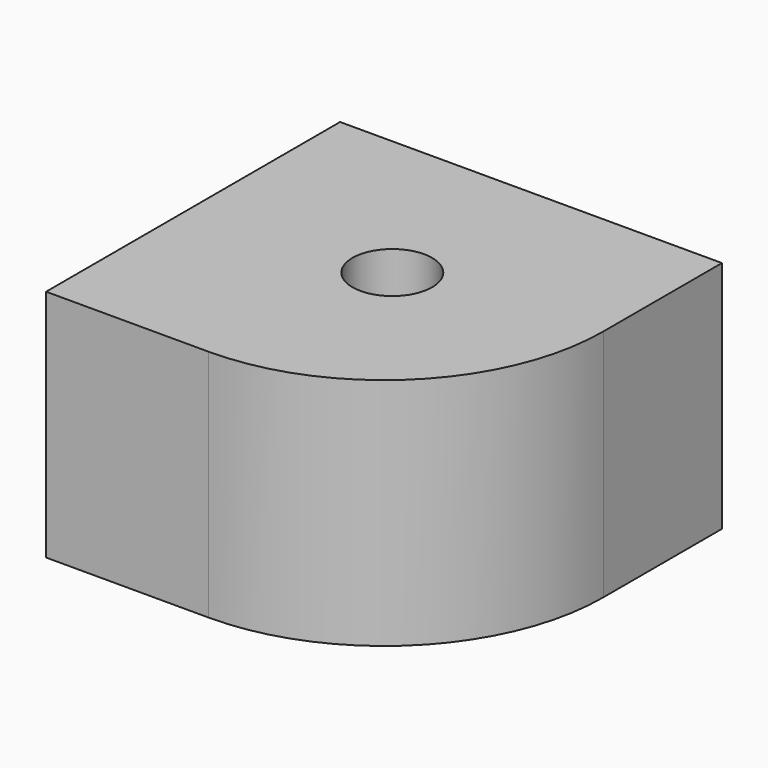
from build123d import *

# Parameters (mm, degrees)
F0_W     = 121.796116
F0_H     = 74.661746
F1_DEPTH = 117.227465
F3_D     = 25.4
F4_R     = 69.925974


with BuildPart() as f1:
    # F0 (on Front) → F1 (new body)
    with BuildSketch(Plane.XZ):
        Rectangle(F0_W, F0_H)
    extrude(amount=F1_DEPTH)

    # F3 (through all)
    with Locations(Plane.XY.offset(37.330873)):
        with Locations((0, -55.301771)):
            Hole(F3_D / 2)

    # F4
    f4_edges = [f1.edges().sort_by_distance(p)[0] for p in [
        (60.898058, -117.227465, 0),
    ]]
    fillet(f4_edges, radius=F4_R)


solid = f1.part
